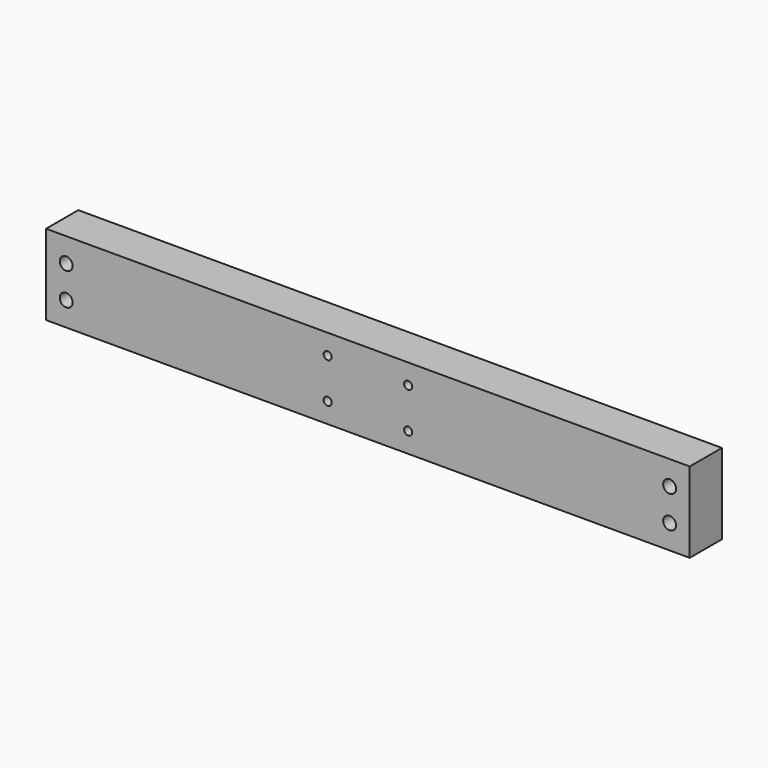
from build123d import *

# Parameters (mm, degrees)
F0_W     = 400
F0_H     = 50
F1_DEPTH = 25
F2_R     = 4
F3_DEPTH = 25
F4_W     = 60
F4_H     = 35
F5_DEPTH = 5
F6_R     = 2.5
F7_DEPTH = 30.001
F8_R     = 1.5


with BuildPart() as f1:
    # F0 (on Front) → F1 (new body)
    with BuildSketch(Plane.XZ):
        Rectangle(F0_W, F0_H)
    extrude(amount=F1_DEPTH)

    # F2 (on face) → F3 (cut, through all)
    with BuildSketch(Plane.XZ.offset(25)):
        with Locations((-187.5, 10)):
            Circle(F2_R)
        with Locations((-187.5, -10)):
            Circle(F2_R)
        with Locations((187.5, 10)):
            Circle(F2_R)
        with Locations((187.5, -10)):
            Circle(F2_R)
    extrude(amount=-F3_DEPTH, mode=Mode.SUBTRACT)

    # F4 (on face) → F5 (join)
    with BuildSketch(Plane(origin=(0, 0, 0), x_dir=(-1, 0, 0), z_dir=(0, 1, 0))):
        Rectangle(F4_W, F4_H)
    extrude(amount=F5_DEPTH)

    # F6 (on face) → F7 (cut, through all)
    with BuildSketch(Plane(origin=(0, 5, 0), x_dir=(-1, 0, 0), z_dir=(0, 1, 0))):
        with Locations((-25, 12.5)):
            Circle(F6_R)
        with Locations((25, 12.5)):
            Circle(F6_R)
        with Locations((25, -12.5)):
            Circle(F6_R)
        with Locations((-25, -12.5)):
            Circle(F6_R)
    extrude(amount=-F7_DEPTH, mode=Mode.SUBTRACT)

    # F11: sweep along a path in F10
    with BuildLine(Plane.XY) as f11_path:
        ThreePointArc((5, 5), (0, 10), (-5, 5))
    # F8 (on face) → F11 (sweep)
    with BuildSketch(Plane(origin=(0, 5, 0), x_dir=(-1, 0, 0), z_dir=(0, 1, 0))):
        with Locations((-5, 0)):
            Circle(F8_R)
    sweep(path=f11_path.line)


solid = f1.part
